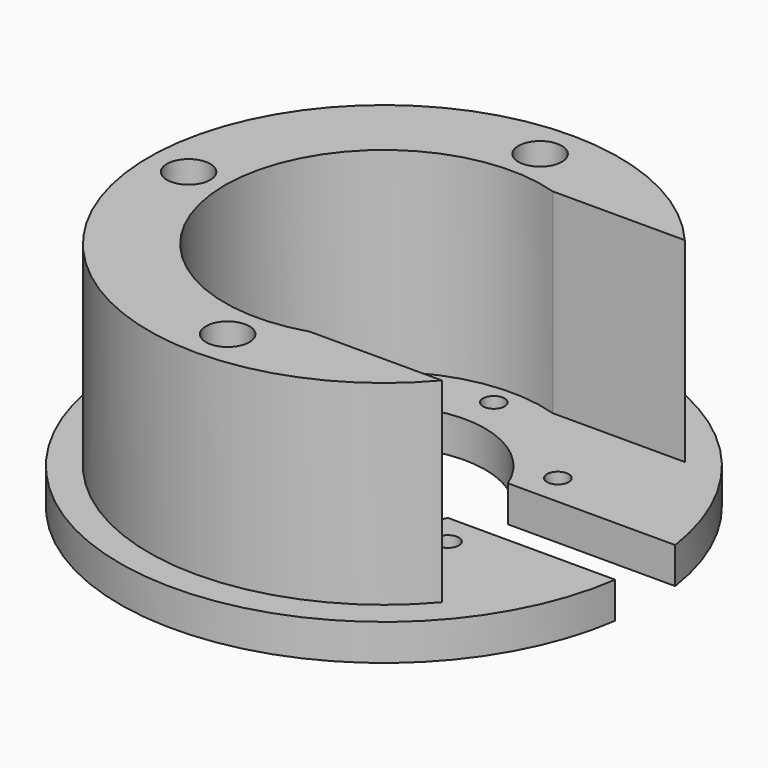
from build123d import *

# Parameters (mm, degrees)
SKETCH018_R           = 1.5
POCKET002_DEPTH       = 5
POLARPATTERN001_COUNT = 6
SKETCH019_W           = 44.124263
SKETCH019_H           = 42
POCKET003_DEPTH       = 27
SKETCH020_R           = 3
POCKET004_DEPTH       = 20
SKETCH021_W           = 55.928879
SKETCH021_H           = 10.367922
POCKET005_DEPTH       = 5


with BuildPart() as part:
    # Sketch017 → Revolution001 (revolve)
    with BuildSketch(Plane.XZ):
        Polygon((14, 0), (14, 5), (22, 5), (22, 32), (32.5, 32), (32.5, 5), (36.5, 5), (36.5, 0), align=None)
    revolve(axis=Axis((0, 0, 0), (0, 0, 1)))

    # Sketch018 (on Face2 of Revolution001) → Pocket002 (cut)
    with BuildSketch(Plane(origin=(0, 0, 5), x_dir=(-1, 0, 0), z_dir=(0, 0, 1))):
        with Locations((0, 19)):
            Circle(SKETCH018_R)
    pocket002 = extrude(amount=-POCKET002_DEPTH, mode=Mode.SUBTRACT)

    # PolarPattern001: Pocket002 ×6 about axis
    polarpattern001_axis = Axis((0, 0, 5), (0, 0, 1))
    for i in range(1, POLARPATTERN001_COUNT):
        add(pocket002.rotate(polarpattern001_axis, i * 360 / POLARPATTERN001_COUNT), mode=Mode.SUBTRACT)

    # Sketch019 (on Face13 of PolarPattern001) → Pocket003 (cut)
    with BuildSketch(Plane(origin=(0, 0, 32), x_dir=(-1, 0, 0), z_dir=(0, 0, 1))):
        with Locations((-25.154536, 0)):
            Rectangle(SKETCH019_W, SKETCH019_H)
    extrude(amount=-POCKET003_DEPTH, mode=Mode.SUBTRACT)

    # Sketch020 (on Face14 of Pocket003) → Pocket004 (cut)
    with BuildSketch(Plane(origin=(0, 0, 32), x_dir=(-1, 0, 0), z_dir=(0, 0, 1))):
        with Locations((0, 27)):
            Circle(SKETCH020_R)
        with Locations((0, -27)):
            Circle(SKETCH020_R)
        with Locations((27, 0)):
            Circle(SKETCH020_R)
    extrude(amount=-POCKET004_DEPTH, mode=Mode.SUBTRACT)

    # Sketch021 (on Face2 of Pocket004) → Pocket005 (cut)
    with BuildSketch(Plane(origin=(0, 0, 5), x_dir=(-1, 0, 0), z_dir=(0, 0, 1))):
        with Locations((-39.002113, 0)):
            Rectangle(SKETCH021_W, SKETCH021_H)
    extrude(amount=-POCKET005_DEPTH, mode=Mode.SUBTRACT)


with BuildPart() as part_1:
    # Body placement: moved
    add(part.part.moved(Location((0, -3e-06, 29.000002))))


solid = part_1.part
